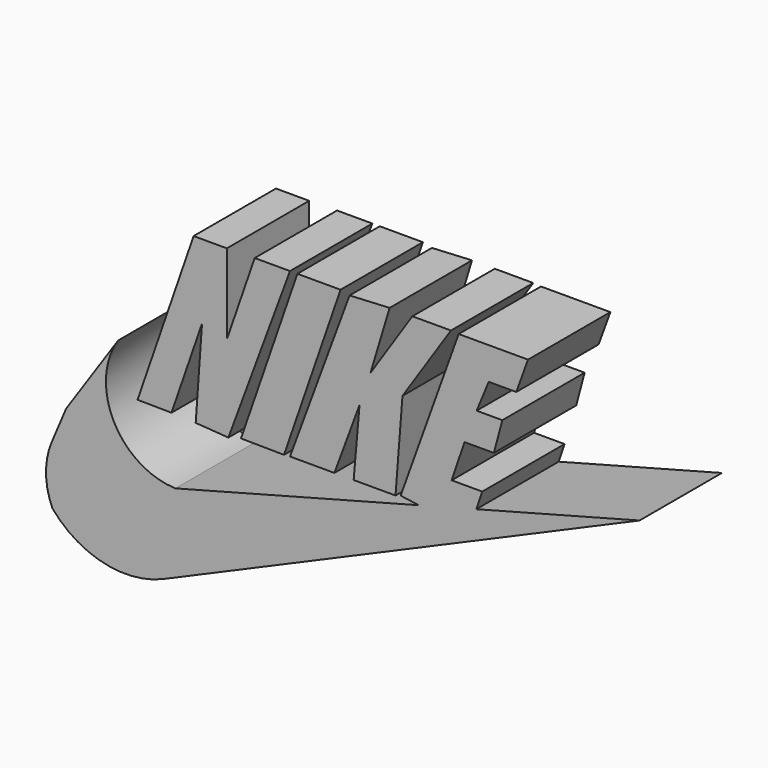
from build123d import *

# Parameters (mm, degrees)
F1_DEPTH = 25.4


with BuildPart() as f1:
    # F0 (on Front) → F1 (new body)
    with BuildSketch(Plane.XZ):
        Polygon((-46.818859, 24.929805), (-38.446698, 24.834873), (-30.909639, 46.666358), (-32.46903, 24.574976), (-24.406482, 24.005855), (-9.208106, 65.119155), (-17.914709, 65.119155), (-24.782718, 45.22561), (-24.782718, 64.989209), (-32.988828, 64.989209), align=None)
        Polygon((-7.385723, 65.119155), (-21.293391, 24.834873), (-10.680018, 24.720814), (3.267027, 65.119155), align=None)
        Polygon((5.494137, 64.60608), (-9.208106, 24.834873), (1.750091, 24.834873), (7.951523, 41.610438), (6.502392, 24.834873), (16.827447, 24.834873), (18.548289, 47.044676), (30.503614, 65.119155), (20.993697, 65.119155), (10.668642, 49.490087), (15.378317, 65.119155), align=None)
        Polygon((22.575105, 24.591815), (36.766838, 28.342584), (38.228463, 32.64394), (30.684758, 32.64394), (33.85473, 41.972719), (41.100383, 41.972719), (43.183509, 49.761795), (36.843564, 49.761795), (39.832395, 57.007447), (46.625193, 57.007447), (49.523454, 64.977668), (32.4056, 64.977668), (18.095437, 25.217149), align=None)
        with BuildLine():
            Line((-40.397573, -11.914296), (77.047856, 38.988556))
            Line((77.047856, 38.988556), (36.766838, 28.342584))
            Line((36.766838, 28.342584), (22.575105, 24.591815))
            Line((22.575105, 24.591815), (-37.471491, 8.721948))
            ThreePointArc((-37.471491, 8.721948), (-52.68486, 18.311033), (-51.597945, 36.261402))
            Line((-51.597945, 36.261402), (-64.41962, 17.313818))
            Line((-64.41962, 17.313818), (-67.981198, 8.908497))
            ThreePointArc((-67.981198, 8.908497), (-69.408435, 1.699277), (-67.838736, -5.480271))
            ThreePointArc((-67.838736, -5.480271), (-55.182961, -13.23869), (-40.397573, -11.914296))
        make_face()
    extrude(amount=F1_DEPTH)


solid = f1.part
